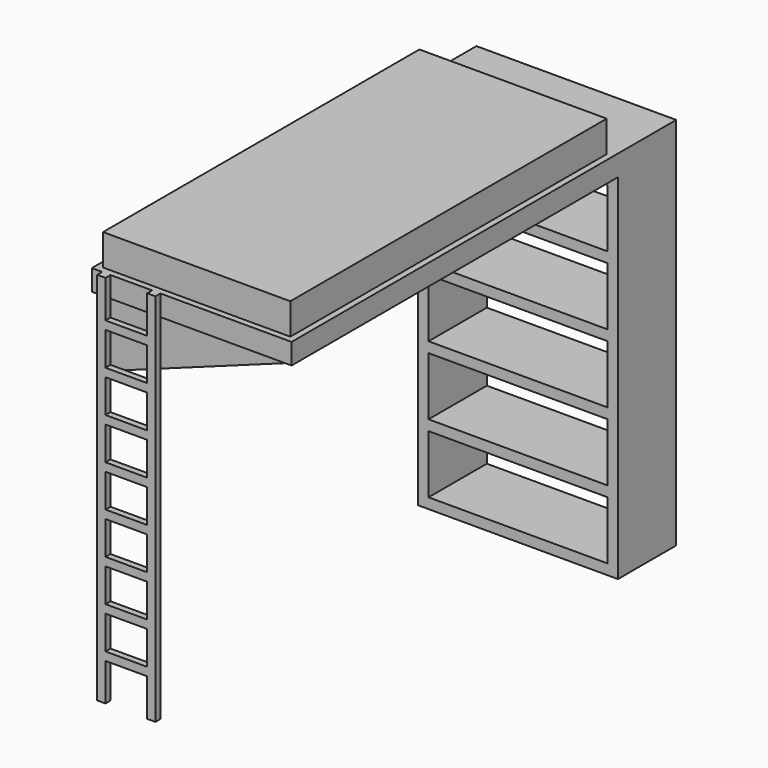
from build123d import *

# Parameters (mm, degrees)
F0_W      = 900
F0_H      = 1900
F1_DEPTH  = 150
F3_DEPTH  = 100
F4_W      = 960
F4_H      = 350
F5_DEPTH  = 1700
F6_W      = 860
F6_H      = 280
F7_DEPTH  = 350
F9_DEPTH  = 50
F10_W     = 40
F10_H     = 1800
F11_DEPTH = 30
F12_W     = 200
F12_H     = 40
F13_DEPTH = 30


with BuildPart() as f1:
    # F0 (on Top) → F1 (new body)
    with BuildSketch(Plane.XY):
        Rectangle(F0_W, F0_H)
    extrude(amount=F1_DEPTH)

    # F2 (on face) → F3 (join)
    with BuildSketch(Plane(origin=(0, 0, 0), x_dir=(1, 0, 0), z_dir=(0, 0, -1))):
        Polygon((480, 980), (-480, 980), (-480, -980), (-480, -1330), (480, -1330), (480, -980), align=None)
    extrude(amount=F3_DEPTH)

    # F4 (on face) → F5 (join)
    with BuildSketch(Plane(origin=(0, 0, -100), x_dir=(1, 0, 0), z_dir=(0, 0, -1))):
        with Locations((0, -1155)):
            Rectangle(F4_W, F4_H)
    extrude(amount=F5_DEPTH)

    # F6 (on face) → F7 (cut, through all)
    with BuildSketch(Plane.XZ.offset(-980)):
        with Locations((0, -290)):
            Rectangle(F6_W, F6_H)
        with Locations((0, -620)):
            Rectangle(F6_W, F6_H)
        with Locations((0, -950)):
            Rectangle(F6_W, F6_H)
        with Locations((0, -1280)):
            Rectangle(F6_W, F6_H)
        with Locations((0, -1610)):
            Rectangle(F6_W, F6_H)
    extrude(amount=-F7_DEPTH, mode=Mode.SUBTRACT)

    # F8 (on face) → F9 (join)
    with BuildSketch(Plane.XZ.offset(950)):
        Polygon((480, -100), (-480, -100), (-480, -449.411425), align=None)
    extrude(amount=-F9_DEPTH)

    # F10 (on face) → F11 (join)
    with BuildSketch(Plane.XZ.offset(980)):
        with Locations((-410, -900)):
            Rectangle(F10_W, F10_H)
        with Locations((-170, -900)):
            Rectangle(F10_W, F10_H)
    extrude(amount=F11_DEPTH)

    # F12 (on face) → F13 (join, through all)
    with BuildSketch(Plane.XZ.offset(1010)):
        with Locations((-290, -200)):
            Rectangle(F12_W, F12_H)
        with Locations((-290, -400)):
            Rectangle(F12_W, F12_H)
        with Locations((-290, -600)):
            Rectangle(F12_W, F12_H)
        with Locations((-290, -800)):
            Rectangle(F12_W, F12_H)
        with Locations((-290, -1000)):
            Rectangle(F12_W, F12_H)
        with Locations((-290, -1200)):
            Rectangle(F12_W, F12_H)
        with Locations((-290, -1400)):
            Rectangle(F12_W, F12_H)
        with Locations((-290, -1600)):
            Rectangle(F12_W, F12_H)
    extrude(amount=-F13_DEPTH)


solid = f1.part
